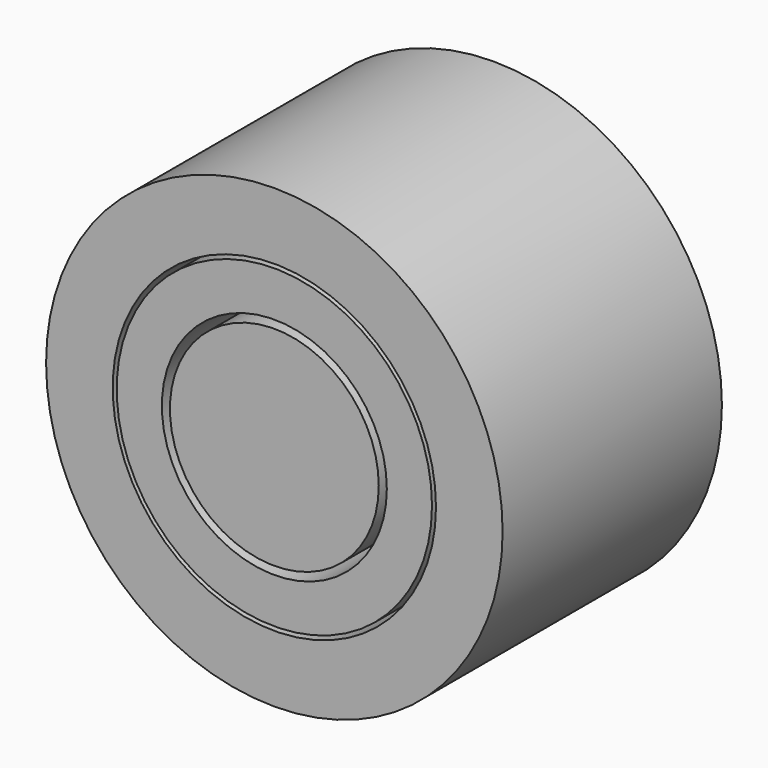
from build123d import *

# Parameters (mm, degrees)
F0_R     = 54.989641
F0_R_2   = 38.94163
F0_R_3   = 37.978864
F0_R_4   = 27.098671
F0_R_5   = 25.15318
F1_DEPTH = 66.04


with BuildPart() as f1:
    # F0 (on Front) → F1 (new body)
    with BuildSketch(Plane.XZ):
        Circle(F0_R)
        Circle(F0_R_2, mode=Mode.SUBTRACT)
        Circle(F0_R_3)
        Circle(F0_R_4, mode=Mode.SUBTRACT)
        Circle(F0_R_5)
    extrude(amount=F1_DEPTH)


solid = f1.part
